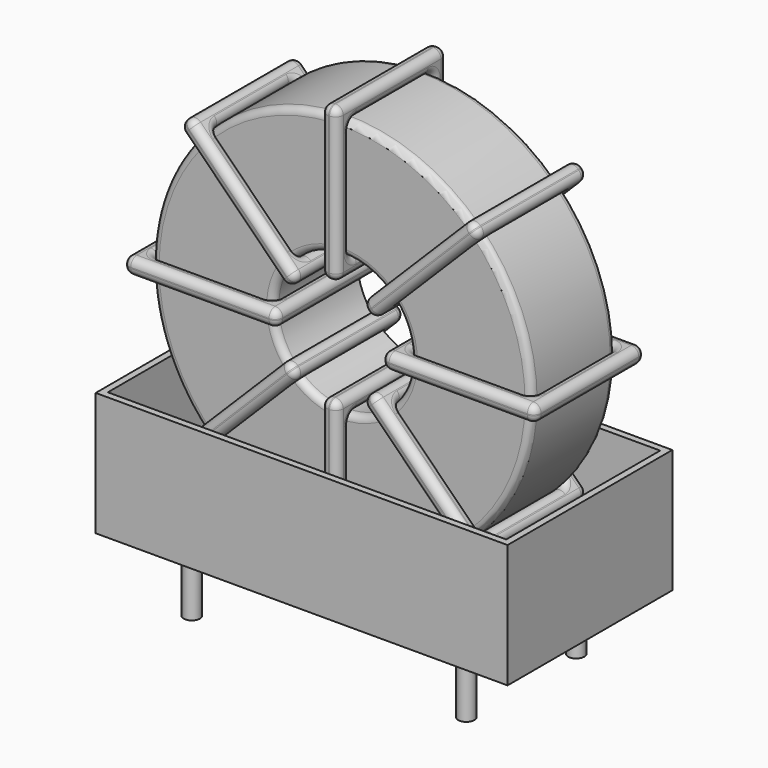
from build123d import *

# Parameters (mm, degrees)
SKETCH001_R   = 0.6
PAD001_DEPTH  = 5
SKETCH_R      = 14.04
SKETCH_R_2    = 5.08
PAD_DEPTH     = 3.88
FILLET_R      = 0.5
SKETCH003_W   = 11.36
SKETCH003_H   = 10.16
SKETCH003_W_2 = 8.96
SKETCH003_H_2 = 7.76
PAD002_DEPTH  = 0.6
FILLET001_R   = 0.564
SKETCH004_W   = 11.36
SKETCH004_H   = 10.16
SKETCH004_W_2 = 8.96
SKETCH004_H_2 = 7.76
PAD003_DEPTH  = 0.6
FILLET002_R   = 0.564
SKETCH005_W   = 11.36
SKETCH005_H   = 10.16
SKETCH005_W_2 = 8.96
SKETCH005_H_2 = 7.76
PAD004_DEPTH  = 0.6
FILLET003_R   = 0.564
SKETCH006_W   = 11.36
SKETCH006_H   = 10.16
SKETCH006_W_2 = 8.96
SKETCH006_H_2 = 7.76
PAD005_DEPTH  = 0.6
FILLET004_R   = 0.564
SKETCH007_W   = 30.48
SKETCH007_H   = 15.24
PAD006_DEPTH  = 0.5
SKETCH008_W   = 30.48
SKETCH008_H   = 15.24
SKETCH008_W_2 = 29.48
SKETCH008_H_2 = 14.24
PAD007_DEPTH  = 9.144


with BuildPart() as pad001:
    # Sketch001 → Pad001 (new body)
    with BuildSketch(Plane.XY.offset(0.75)):
        Circle(SKETCH001_R)
        with Locations((20.32, -10.16)):
            Circle(SKETCH001_R)
        with Locations((0, -10.16)):
            Circle(SKETCH001_R)
        with Locations((20.32, 0)):
            Circle(SKETCH001_R)
    extrude(amount=-PAD001_DEPTH)


with BuildPart() as fillet_body:
    # Sketch → Pad (new body, symmetric)
    with BuildSketch(Plane(origin=(10.16, -5.08, 0), x_dir=(1, 0, 0), z_dir=(0, -1, 0))):
        with Locations((0, 16.94)):
            Circle(SKETCH_R)
        with Locations((0, 16.94)):
            Circle(SKETCH_R_2, mode=Mode.SUBTRACT)
    extrude(amount=PAD_DEPTH, both=True)

    # Fillet
    fillet_edges = [fillet_body.edges().sort_by_distance(p)[0] for p in [
        (5.08, -8.96, 16.94),
        (-3.88, -8.96, 16.94),
        (-3.88, -1.2, 16.94),
    ]]
    fillet(fillet_edges, radius=FILLET_R)


with BuildPart() as fillet001:
    # Sketch003 → Pad002 (new body, symmetric)
    with BuildSketch(Plane(origin=(10.16, 0, 16.94), x_dir=(1, 0, 0), z_dir=(0, 0, -1))):
        with Locations((-9.56, 5.08)):
            Rectangle(SKETCH003_W, SKETCH003_H)
        with Locations((-9.56, 5.08)):
            Rectangle(SKETCH003_W_2, SKETCH003_H_2, mode=Mode.SUBTRACT)
        with Locations((9.56, 5.08)):
            Rectangle(SKETCH003_W, SKETCH003_H)
        with Locations((9.56, 5.08)):
            Rectangle(SKETCH003_W_2, SKETCH003_H_2, mode=Mode.SUBTRACT)
    extrude(amount=PAD002_DEPTH, both=True)

    # Fillet001
    fillet001_edges = [fillet001.edges().sort_by_distance(p)[0] for p in [
        (5.08, -8.96, 16.94),
        (5.08, -1.2, 16.94),
        (5.08, -5.08, 17.54),
        (5.08, -5.08, 16.34),
        (-5.08, -10.16, 16.94),
        (6.28, -10.16, 16.94),
        (0.6, -10.16, 17.54),
        (0.6, -10.16, 16.34),
        (6.28, 0, 16.94),
        (6.28, -5.08, 17.54),
        (6.28, -5.08, 16.34),
        (15.24, -8.96, 16.94),
        (24.2, -8.96, 16.94),
        (19.72, -8.96, 17.54),
        (19.72, -8.96, 16.34),
        (24.2, -1.2, 16.94),
        (24.2, -5.08, 17.54),
        (24.2, -5.08, 16.34),
        (14.04, -10.16, 16.94),
        (25.4, -10.16, 16.94),
        (19.72, -10.16, 17.54),
        (19.72, -10.16, 16.34),
        (25.4, 0, 16.94),
        (25.4, -5.08, 17.54),
        (25.4, -5.08, 16.34),
        (-3.88, -8.96, 16.94),
        (0.6, -8.96, 17.54),
        (0.6, -8.96, 16.34),
        (15.24, -1.2, 16.94),
        (15.24, -5.08, 17.54),
        (15.24, -5.08, 16.34),
        (19.72, -1.2, 17.54),
        (19.72, -1.2, 16.34),
        (14.04, 0, 16.94),
        (19.72, 0, 17.54),
        (19.72, 0, 16.34),
        (14.04, -5.08, 17.54),
        (14.04, -5.08, 16.34),
        (-5.08, 0, 16.94),
        (0.6, 0, 17.54),
        (0.6, 0, 16.34),
        (-5.08, -5.08, 17.54),
        (-5.08, -5.08, 16.34),
        (-3.88, -1.2, 16.94),
        (-3.88, -5.08, 17.54),
        (-3.88, -5.08, 16.34),
        (0.6, -1.2, 17.54),
        (0.6, -1.2, 16.34),
    ]]
    fillet(fillet001_edges, radius=FILLET001_R)


with BuildPart() as fillet002:
    # Sketch004 → Pad003 (new body, symmetric)
    with BuildSketch(Plane(origin=(10.16, 0, 16.94), x_dir=(0.707108, 0, 0.707106), z_dir=(0.707106, 0, -0.707108))):
        with Locations((-9.56, 5.08)):
            Rectangle(SKETCH004_W, SKETCH004_H)
        with Locations((-9.56, 5.08)):
            Rectangle(SKETCH004_W_2, SKETCH004_H_2, mode=Mode.SUBTRACT)
        with Locations((9.56, 5.08)):
            Rectangle(SKETCH004_W, SKETCH004_H)
        with Locations((9.56, 5.08)):
            Rectangle(SKETCH004_W_2, SKETCH004_H_2, mode=Mode.SUBTRACT)
    extrude(amount=PAD003_DEPTH, both=True)

    # Fillet002
    fillet002_edges = [fillet002.edges().sort_by_distance(p)[0] for p in [
        (6.567893, -8.96, 13.347902),
        (6.567893, -1.2, 13.347902),
        (6.14363, -5.08, 13.772166),
        (6.992157, -5.08, 12.923637),
        (-0.61632, -10.16, 6.163705),
        (7.416423, -10.16, 14.196429),
        (2.975788, -10.16, 10.604332),
        (3.824315, -10.16, 9.755802),
        (7.416423, 0, 14.196429),
        (6.992159, -5.08, 14.620693),
        (7.840686, -5.08, 13.772164),
        (13.752107, -1.2, 20.532098),
        (13.752107, -8.96, 20.532098),
        (13.327843, -5.08, 20.956363),
        (14.17637, -5.08, 20.107834),
        (20.087791, -1.2, 26.867768),
        (16.495685, -1.2, 24.124198),
        (17.344212, -1.2, 23.275668),
        (12.903577, -10.16, 19.683571),
        (20.93632, -10.16, 27.716295),
        (16.495685, -10.16, 24.124198),
        (17.344212, -10.16, 23.275668),
        (20.93632, 0, 27.716295),
        (20.512056, -5.08, 28.140559),
        (21.360583, -5.08, 27.29203),
        (0.232209, -8.96, 7.012232),
        (2.975788, -8.96, 10.604332),
        (3.824315, -8.96, 9.755802),
        (20.087791, -8.96, 26.867768),
        (16.495685, -8.96, 24.124198),
        (17.344212, -8.96, 23.275668),
        (19.663527, -5.08, 27.292032),
        (20.512054, -5.08, 26.443503),
        (12.903577, 0, 19.683571),
        (16.495685, 0, 24.124198),
        (17.344212, 0, 23.275668),
        (12.479314, -5.08, 20.107836),
        (13.327841, -5.08, 19.259307),
        (-0.61632, 0, 6.163705),
        (2.975788, 0, 10.604332),
        (3.824315, 0, 9.755802),
        (-1.040583, -5.08, 6.58797),
        (-0.192056, -5.08, 5.739441),
        (0.232209, -1.2, 7.012232),
        (-0.192054, -5.08, 7.436497),
        (0.656473, -5.08, 6.587968),
        (2.975788, -1.2, 10.604332),
        (3.824315, -1.2, 9.755802),
    ]]
    fillet(fillet002_edges, radius=FILLET002_R)


with BuildPart() as fillet003:
    # Sketch005 → Pad004 (new body, symmetric)
    with BuildSketch(Plane(origin=(10.16, 0, 16.94), x_dir=(0.707108, 0, -0.707106), z_dir=(-0.707106, 0, -0.707108))):
        with Locations((-9.56, 5.08)):
            Rectangle(SKETCH005_W, SKETCH005_H)
        with Locations((-9.56, 5.08)):
            Rectangle(SKETCH005_W_2, SKETCH005_H_2, mode=Mode.SUBTRACT)
        with Locations((9.56, 5.08)):
            Rectangle(SKETCH005_W, SKETCH005_H)
        with Locations((9.56, 5.08)):
            Rectangle(SKETCH005_W_2, SKETCH005_H_2, mode=Mode.SUBTRACT)
    extrude(amount=PAD004_DEPTH, both=True)

    # Fillet003
    fillet003_edges = [fillet003.edges().sort_by_distance(p)[0] for p in [
        (0.232209, -8.96, 26.867768),
        (6.567893, -1.2, 20.532098),
        (3.824315, -1.2, 24.124198),
        (2.975788, -1.2, 23.275668),
        (-0.61632, -10.16, 27.716295),
        (7.416423, -10.16, 19.683571),
        (3.824315, -10.16, 24.124198),
        (2.975788, -10.16, 23.275668),
        (7.416423, 0, 19.683571),
        (7.840686, -5.08, 20.107836),
        (6.992159, -5.08, 19.259307),
        (13.752107, -8.96, 13.347902),
        (20.087791, -8.96, 7.012232),
        (17.344212, -8.96, 10.604332),
        (16.495685, -8.96, 9.755802),
        (20.087791, -1.2, 7.012232),
        (20.512054, -5.08, 7.436497),
        (19.663527, -5.08, 6.587968),
        (12.903577, 0, 14.196429),
        (12.903577, -10.16, 14.196429),
        (13.327841, -5.08, 14.620693),
        (12.479314, -5.08, 13.772164),
        (20.93632, 0, 6.163705),
        (17.344212, 0, 10.604332),
        (16.495685, 0, 9.755802),
        (0.232209, -1.2, 26.867768),
        (0.656473, -5.08, 27.292032),
        (-0.192054, -5.08, 26.443503),
        (13.752107, -1.2, 13.347902),
        (14.17637, -5.08, 13.772166),
        (13.327843, -5.08, 12.923637),
        (17.344212, -1.2, 10.604332),
        (16.495685, -1.2, 9.755802),
        (20.93632, -10.16, 6.163705),
        (21.360583, -5.08, 6.58797),
        (20.512056, -5.08, 5.739441),
        (17.344212, -10.16, 10.604332),
        (16.495685, -10.16, 9.755802),
        (-0.61632, 0, 27.716295),
        (3.824315, 0, 24.124198),
        (2.975788, 0, 23.275668),
        (-0.192056, -5.08, 28.140559),
        (-1.040583, -5.08, 27.29203),
        (6.567893, -8.96, 20.532098),
        (3.824315, -8.96, 24.124198),
        (2.975788, -8.96, 23.275668),
        (6.992157, -5.08, 20.956363),
        (6.14363, -5.08, 20.107834),
    ]]
    fillet(fillet003_edges, radius=FILLET003_R)


with BuildPart() as fillet004:
    # Sketch006 → Pad005 (new body, symmetric)
    with BuildSketch(Plane(origin=(10.16, 0, 16.94), x_dir=(0, 0, 1), z_dir=(1, 0, 0))):
        with Locations((-9.56, 5.08)):
            Rectangle(SKETCH006_W, SKETCH006_H)
        with Locations((-9.56, 5.08)):
            Rectangle(SKETCH006_W_2, SKETCH006_H_2, mode=Mode.SUBTRACT)
        with Locations((9.56, 5.08)):
            Rectangle(SKETCH006_W, SKETCH006_H)
        with Locations((9.56, 5.08)):
            Rectangle(SKETCH006_W_2, SKETCH006_H_2, mode=Mode.SUBTRACT)
    extrude(amount=PAD005_DEPTH, both=True)

    # Fillet004
    fillet004_edges = [fillet004.edges().sort_by_distance(p)[0] for p in [
        (10.16, -8.96, 30.98),
        (10.16, -1.2, 30.98),
        (9.56, -5.08, 30.98),
        (10.76, -5.08, 30.98),
        (10.16, 0, 32.18),
        (10.16, 0, 20.82),
        (9.56, 0, 26.5),
        (10.76, 0, 26.5),
        (10.16, -10.16, 20.82),
        (9.56, -5.08, 20.82),
        (10.76, -5.08, 20.82),
        (10.16, -8.96, 2.9),
        (10.16, -8.96, 11.86),
        (9.56, -8.96, 7.38),
        (10.76, -8.96, 7.38),
        (10.16, -1.2, 11.86),
        (9.56, -5.08, 11.86),
        (10.76, -5.08, 11.86),
        (10.16, 0, 13.06),
        (10.16, 0, 1.7),
        (9.56, 0, 7.38),
        (10.76, 0, 7.38),
        (10.16, -10.16, 1.7),
        (9.56, -5.08, 1.7),
        (10.76, -5.08, 1.7),
        (10.16, -8.96, 22.02),
        (9.56, -8.96, 26.5),
        (10.76, -8.96, 26.5),
        (10.16, -1.2, 2.9),
        (9.56, -5.08, 2.9),
        (10.76, -5.08, 2.9),
        (9.56, -1.2, 7.38),
        (10.76, -1.2, 7.38),
        (10.16, -10.16, 13.06),
        (9.56, -10.16, 7.38),
        (10.76, -10.16, 7.38),
        (9.56, -5.08, 13.06),
        (10.76, -5.08, 13.06),
        (10.16, -10.16, 32.18),
        (9.56, -10.16, 26.5),
        (10.76, -10.16, 26.5),
        (9.56, -5.08, 32.18),
        (10.76, -5.08, 32.18),
        (10.16, -1.2, 22.02),
        (9.56, -5.08, 22.02),
        (10.76, -5.08, 22.02),
        (9.56, -1.2, 26.5),
        (10.76, -1.2, 26.5),
    ]]
    fillet(fillet004_edges, radius=FILLET004_R)


with BuildPart() as pad006:
    # Sketch007 → Pad006 (new body)
    with BuildSketch(Plane(origin=(10.16, 0, 0.5), x_dir=(1, 0, 0), z_dir=(0, 0, 1))):
        with Locations((0, -5.08)):
            Rectangle(SKETCH007_W, SKETCH007_H)
    extrude(amount=PAD006_DEPTH)


with BuildPart() as pad007:
    # Sketch008 → Pad007 (new body)
    with BuildSketch(Plane(origin=(10.16, 0, 0.5), x_dir=(1, 0, 0), z_dir=(0, 0, 1))):
        with Locations((0, -5.08)):
            Rectangle(SKETCH008_W, SKETCH008_H)
        with Locations((0, -5.08)):
            Rectangle(SKETCH008_W_2, SKETCH008_H_2, mode=Mode.SUBTRACT)
    extrude(amount=PAD007_DEPTH)


solid = Compound([pad001.part, fillet_body.part, fillet001.part, fillet002.part, fillet003.part, fillet004.part, pad006.part, pad007.part])
